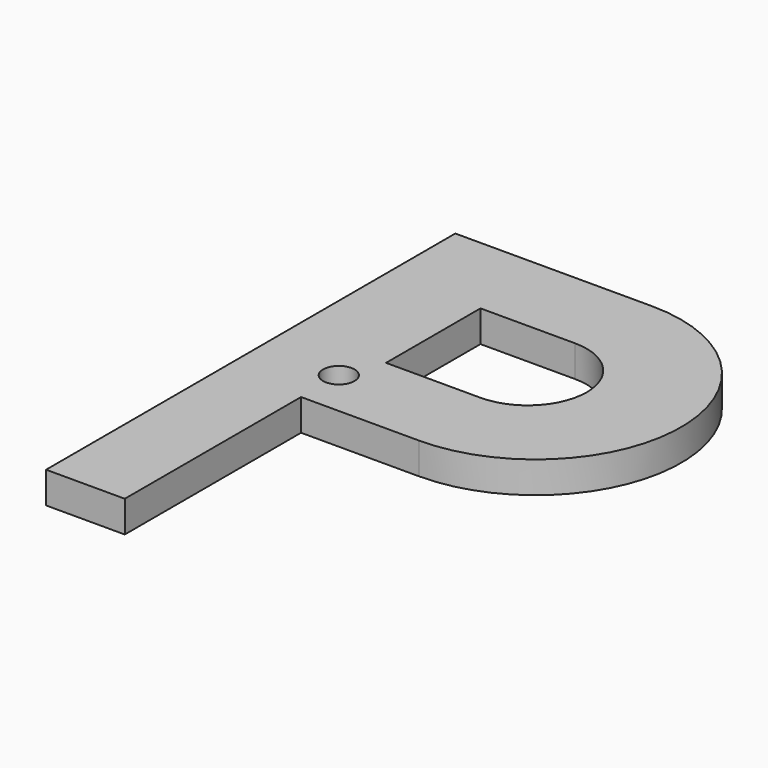
from build123d import *

# Parameters (mm, degrees)
F1_DEPTH = 4
F2_R     = 2
F3_DEPTH = 4.001


with BuildPart() as f1:
    # F0 (on Top) → F1 (new body)
    with BuildSketch(Plane.XY):
        with BuildLine():
            Line((-5, 32.5), (-30, 32.5))
            Line((-30, 32.5), (-30, -32.5))
            Line((-30, -32.5), (-20, -32.5))
            Line((-20, -32.5), (-20, -4.5))
            Line((-20, -4.5), (-5, -4.5))
            ThreePointArc((-5, -4.5), (13.5, 14), (-5, 32.5))
        make_face()
        with BuildLine():
            Line((-18, 6.5), (-18, 21.5))
            Line((-18, 21.5), (-6, 21.5))
            ThreePointArc((-6, 21.5), (1.5, 14), (-6, 6.5))
            Line((-6, 6.5), (-18, 6.5))
        make_face(mode=Mode.SUBTRACT)
    extrude(amount=F1_DEPTH)

    # F2 (on face) → F3 (cut, through all)
    with BuildSketch(Plane.XY.offset(4)):
        with Locations((-20, 1.5)):
            Circle(F2_R)
    extrude(amount=-F3_DEPTH, mode=Mode.SUBTRACT)


solid = f1.part
